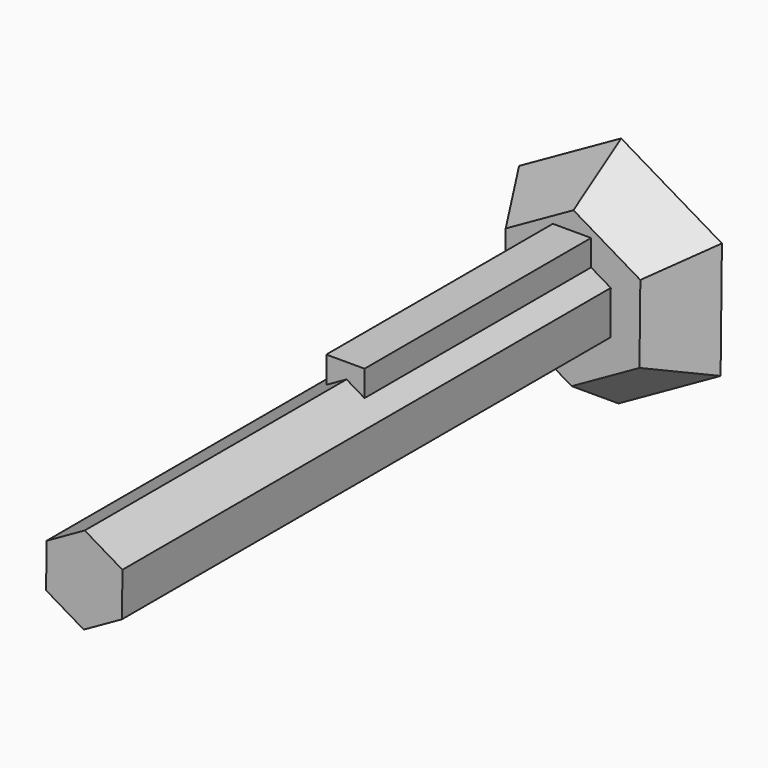
from build123d import *

# Parameters (mm, degrees)
F1_DEPTH = 77.5
F3_DEPTH = 15
F3_TAPER = -30
F4_W     = 9.7201652825
F4_H     = 81.3968237489
F5_DEPTH = 15


with BuildPart() as f1:
    # F0 (on Front) → F1 (new body, symmetric)
    with BuildSketch(Plane.XZ):
        Polygon((-0.1256162198, -11.1232604972), (9.5702180536, -5.6704170861), (9.6958342734, 5.4528434111), (0.1256162198, 11.1232604972), (-9.5702180536, 5.6704170861), (-9.6958342734, -5.4528434111), align=None)
    extrude(amount=F1_DEPTH, both=True)

    # F2 (on face) → F3 (join)
    with BuildSketch(Plane(origin=(0, 77.5, 0), x_dir=(-1, 0, 0), z_dir=(0, 1, 0))):
        Polygon((0.2229186467, -19.7393472), (17.2062354526, -9.676620389), (16.983316806, 10.062726811), (-0.2229186467, 19.7393472), (-17.2062354526, 9.676620389), (-16.983316806, -10.062726811), align=None)
        Polygon((9.6958342734, -5.4528434111), (0.1256162198, -11.1232604972), (-9.5702180536, -5.6704170861), (-9.6958342734, 5.4528434111), (-0.1256162198, 11.1232604972), (9.5702180536, 5.6704170861), align=None, mode=Mode.SUBTRACT)
        Polygon((-9.5702180536, -5.6704170861), (0.1256162198, -11.1232604972), (9.6958342734, -5.4528434111), (9.5702180536, 5.6704170861), (-0.1256162198, 11.1232604972), (-9.6958342734, 5.4528434111), align=None)
    extrude(amount=F3_DEPTH, taper=F3_TAPER)

    # F4 (on Top) → F5 (join)
    with BuildSketch(Plane.XY):
        with Locations((-0.1620021649, 46.2903873995)):
            Rectangle(F4_W, F4_H)
    extrude(amount=F5_DEPTH)


solid = f1.part
